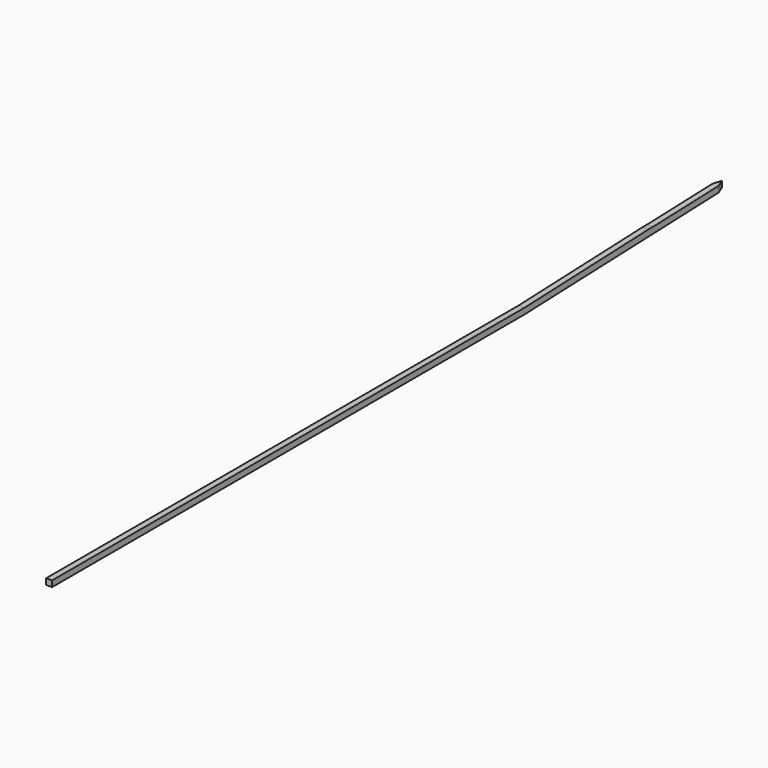
from build123d import *

# Parameters (mm, degrees)
F1_DEPTH = 63.5
F3_DEPTH = 25.4


with BuildPart() as f1:
    # F0 (on Top) → F1 (new body)
    with BuildSketch(Plane.XY):
        Polygon((-12.7, -1791.2969), (0, -1791.2969), (12.7, -1791.2969), (12.7, 1757.060535), (0, 1791.2969), (-12.7, 1757.060535), align=None)
    extrude(amount=F1_DEPTH)

    # F2 (on face) → F3 (cut)
    with BuildSketch(Plane.YZ.offset(12.7)):
        Polygon((1791.2969, 63.5), (-1791.2969, 63.5), (-1791.2969, 25.4), (723.3031, 25.4), (1383.7031, 50.8), (1409.1031, 50.8), align=None)
        Polygon((1791.2969, 38.1), (723.3031, 0), (1791.2969, 0), align=None)
    extrude(amount=-F3_DEPTH, mode=Mode.SUBTRACT)


solid = f1.part
